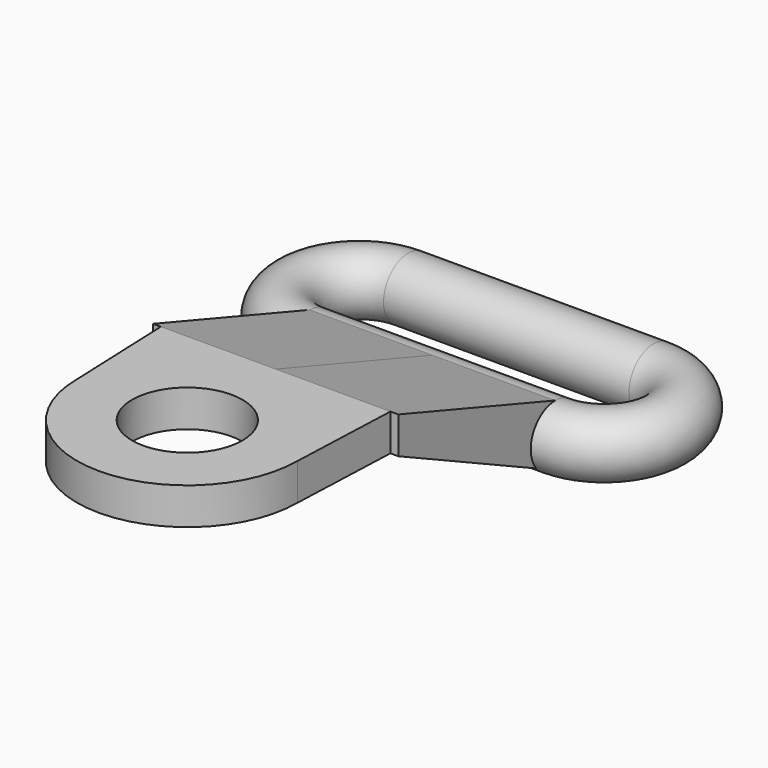
from build123d import *

# Parameters (mm, degrees)
F3_R      = 9
F3_R_2    = 4.5
F4_DEPTH  = 3
F6_DEPTH  = 3
F8_DEPTH  = 3.1
F10_DEPTH = 10
F11_DEPTH = 10
F1_R      = 2.5


with BuildPart() as f4:
    # F3 (on offset) → F4 (new body)
    with BuildSketch(Plane.XY.offset(5)):
        with Locations((0, -30)):
            Circle(F3_R)
        with Locations((0, -30)):
            Circle(F3_R_2, mode=Mode.SUBTRACT)
    extrude(amount=F4_DEPTH)

    # F5 (on offset) → F6 (join)
    with BuildSketch(Plane.XY.offset(5)):
        Polygon((10, -5), (-10, -5), (-9, -30), (-1.422946, -23.646159), (9, -30), align=None)
    extrude(amount=F6_DEPTH)

    # F7 (on offset) → F8 (cut)
    with BuildSketch(Plane.XY.offset(5)):
        Polygon((-13.314119, -21), (0, -21), (13.596853, -21), (13.596853, -1.755954), (-14.464494, -1.755954), align=None)
    extrude(amount=F8_DEPTH, mode=Mode.SUBTRACT)


with BuildPart() as f10:
    # F9 (on Right) → F10 (new body)
    with BuildSketch(Plane.YZ):
        Polygon((-21, 5), (-5, -2.5), (-5, 2.5), (-21, 8), align=None)
    extrude(amount=F10_DEPTH)


with BuildPart() as f11:
    # F9 (on Right) → F11 (new body)
    with BuildSketch(Plane.YZ):
        Polygon((-21, 5), (-5, -2.5), (-5, 2.5), (-21, 8), align=None)
    extrude(amount=-F11_DEPTH)


with BuildPart() as f12:
    # F12: sweep along a path in F0
    with BuildLine(Plane.XY) as f12_path:
        Line((-10, -2.5), (10, -2.5))
        ThreePointArc((10, -2.5), (12.5, 0), (10, 2.5))
        Line((10, 2.5), (-10, 2.5))
        ThreePointArc((-10, 2.5), (-12.5, 0), (-10, -2.5))
    # F1 (on Right) → F12 (sweep)
    with BuildSketch(Plane.YZ):
        with Locations((-5, 0)):
            Circle(F1_R)
    sweep(path=f12_path.line)


solid = Compound([f4.part, f10.part, f11.part, f12.part])
